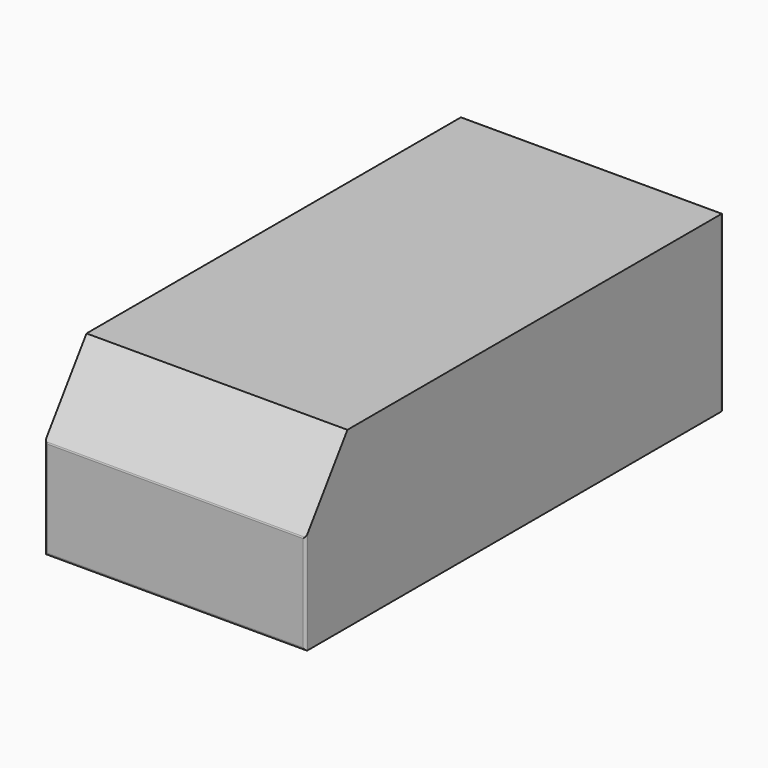
from build123d import *

# Parameters (mm, degrees)
F0_W     = 126.9580200315
F0_H     = 84.6386812627
F1_DEPTH = 127
F2_SIZE2 = 36.2749593712
F2_SIZE  = 25.4
F3_R     = 1.27


with BuildPart() as f1:
    # F0 (on Front) → F1 (new body, symmetric)
    with BuildSketch(Plane.XZ):
        with Locations((0.826548785, 2.1490287036)):
            Rectangle(F0_W, F0_H)
    extrude(amount=F1_DEPTH, both=True)

    # F2
    f2_edges = [f1.edges().sort_by_distance(p)[0] for p in [
        (0.826549, -127, 44.468369),
    ]]
    f2_side = f1.faces().sort_by_distance((0.826549, 0, 44.468369))[0]
    chamfer(f2_edges, length=F2_SIZE, length2=F2_SIZE2, reference=f2_side)

    # F3
    f3_edges = [f1.edges().sort_by_distance(p)[0] for p in [
        (0.826549, 127, 44.468369),
        (-62.652461, 127, 2.149029),
        (0.826549, 127, -40.170312),
        (64.305559, 127, 2.149029),
        (-62.652461, -127, -15.988451),
        (0.826549, -127, 8.19341),
        (0.826549, -127, -40.170312),
        (64.305559, -127, -15.988451),
    ]]
    fillet(f3_edges, radius=F3_R)


solid = f1.part
